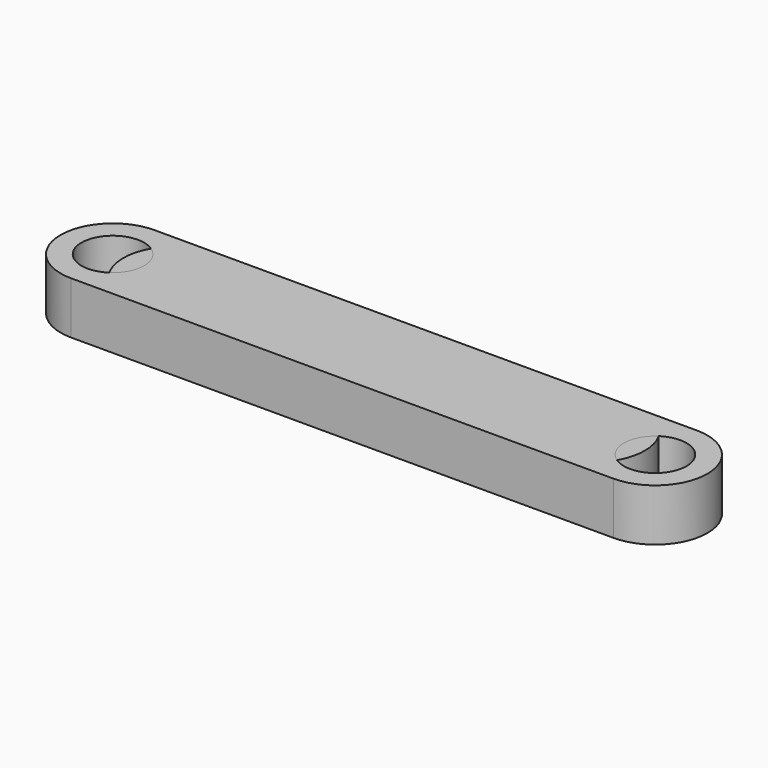
from build123d import *

# Parameters (mm, degrees)
SKETCH_R     = 3
PAD_DEPTH    = 5
SKETCH001_R  = 3
PAD001_DEPTH = 5
SKETCH002_R  = 3
PAD002_DEPTH = 5
SKETCH003_R  = 3
PAD003_DEPTH = 5


with BuildPart() as f_16_mm:
    # Sketch → Pad (new body)
    with BuildSketch(Plane.XY):
        with BuildLine():
            ThreePointArc((-8, 5), (-13, 0), (-8, -5))
            Line((-8, -5), (8, -5))
            ThreePointArc((8, -5), (13, 0), (8, 5))
            Line((8, 5), (-8, 5))
        make_face()
        with Locations((8, 0)):
            Circle(SKETCH_R, mode=Mode.SUBTRACT)
        with Locations((-8, 0)):
            Circle(SKETCH_R, mode=Mode.SUBTRACT)
    extrude(amount=PAD_DEPTH)


with BuildPart() as f_32_mm:
    # Sketch001 → Pad001 (new body)
    with BuildSketch(Plane.XY):
        with BuildLine():
            ThreePointArc((-16, 5), (-21, 0), (-16, -5))
            Line((-16, -5), (16, -5))
            ThreePointArc((16, -5), (21, 0), (16, 5))
            Line((16, 5), (-16, 5))
        make_face()
        with Locations((16, 0)):
            Circle(SKETCH001_R, mode=Mode.SUBTRACT)
        with Locations((-16, 0)):
            Circle(SKETCH001_R, mode=Mode.SUBTRACT)
    extrude(amount=PAD001_DEPTH)


with BuildPart() as f_40_mm:
    # Sketch002 → Pad002 (new body)
    with BuildSketch(Plane.XY):
        with BuildLine():
            ThreePointArc((-20, 5), (-25, 0), (-20, -5))
            Line((-20, -5), (20, -5))
            ThreePointArc((20, -5), (25, 0), (20, 5))
            Line((20, 5), (-20, 5))
        make_face()
        with Locations((20, 0)):
            Circle(SKETCH002_R, mode=Mode.SUBTRACT)
        with Locations((-20, 0)):
            Circle(SKETCH002_R, mode=Mode.SUBTRACT)
    extrude(amount=PAD002_DEPTH)


with BuildPart() as f_52_mm:
    # Sketch003 → Pad003 (new body)
    with BuildSketch(Plane.XY):
        with BuildLine():
            ThreePointArc((-26, 5), (-31, 0), (-26, -5))
            Line((-26, -5), (26, -5))
            ThreePointArc((26, -5), (31, 0), (26, 5))
            Line((26, 5), (-26, 5))
        make_face()
        with Locations((26, 0)):
            Circle(SKETCH003_R, mode=Mode.SUBTRACT)
        with Locations((-26, 0)):
            Circle(SKETCH003_R, mode=Mode.SUBTRACT)
    extrude(amount=PAD003_DEPTH)


solid = Compound([f_16_mm.part, f_32_mm.part, f_40_mm.part, f_52_mm.part])
